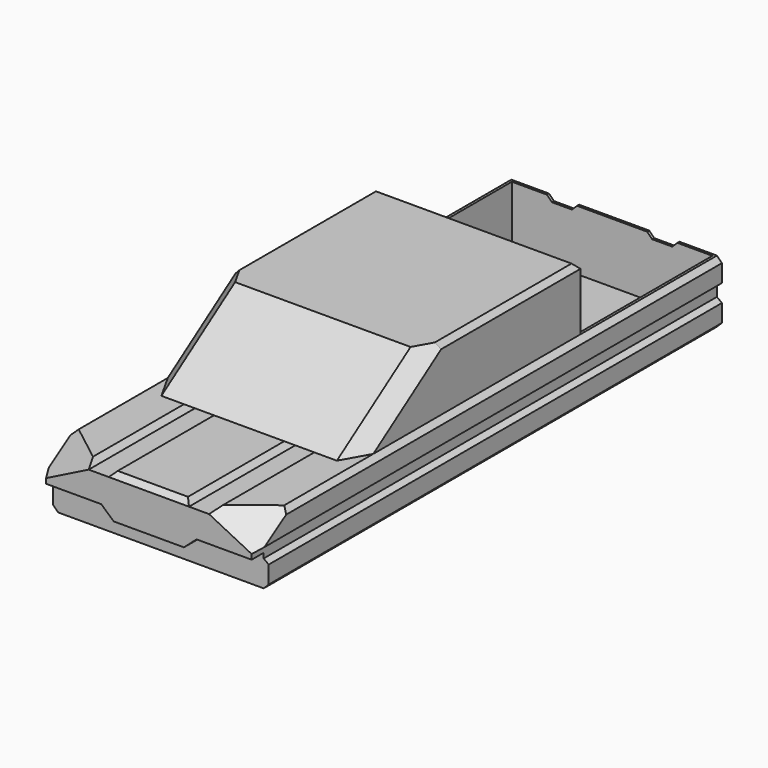
from build123d import *

# Parameters (mm, degrees)
F1_DEPTH  = 5892.8
F4_W      = 1237.3383492231
F4_H      = 606.1354875565
F5_DEPTH  = 254
F6_SIZE   = 50.8
F7_SIZE   = 50.8
F10_W     = 796.8522012234
F10_H     = 674.4315624237
F11_DEPTH = 254
F12_SIZE  = 50.8
F13_W     = 2032
F13_H     = 1676.4
F14_DEPTH = 609.6
F17_DEPTH = 152.4
F19_DEPTH = 2082.8
F20_SIZE  = 50.8
F21_SIZE  = 50.8
F22_SIZE  = 50.8
F23_SIZE  = 152.4
F24_SIZE  = 152.4


with BuildPart() as f1:
    # F0 (on Front) → F1 (new body)
    with BuildSketch(Plane.XZ):
        Polygon((-1092.2, 50.8), (-1041.4, 0), (1041.4, 0), (1092.2, 50.8), (1092.2, 228.6), (1041.4, 266.7), (1041.4, 368.3), (1092.2, 406.4), (1092.2, 584.2), (1041.4, 635), (660.4, 635), (609.6, 584.2), (406.4, 584.2), (355.6, 635), (-355.6, 635), (-406.4, 584.2), (-609.6, 584.2), (-660.4, 635), (-1041.4, 635), (-1092.2, 584.2), (-1092.2, 406.4), (-1041.4, 368.3), (-1041.4, 266.7), (-1092.2, 228.6), align=None)
    extrude(amount=-F1_DEPTH)

    # F4 (on line) → F5 (cut)
    with BuildSketch(Plane(origin=(266.7, -344.3082194778, 533.4), x_dir=(0.9219544457, 0.2100420126, -0.3253956867), z_dir=(0.3872983346, -0.5, 0.7745966692))):
        with Locations((750.6187930703, 477.5711297989)):
            Rectangle(F4_W, F4_H)
    extrude(amount=F5_DEPTH, mode=Mode.SUBTRACT)

    # F6
    f6_edges = [f1.edges().sort_by_distance(p)[0] for p in [
        (0, 0, 635),
    ]]
    chamfer(f6_edges, length=F6_SIZE)

    # F7
    f7_edges = [f1.edges().sort_by_distance(p)[0] for p in [
        (1092.2, 0, 139.7),
    ]]
    chamfer(f7_edges, length=F7_SIZE)

    # F10 (on line) → F11 (cut)
    with BuildSketch(Plane(origin=(-266.7, -344.3082194778, 533.4), x_dir=(0.9219544457, -0.2100420126, 0.3253956867), z_dir=(-0.3872983346, -0.5, 0.7745966692))):
        with Locations((-677.8981238604, 438.4608864784)):
            Rectangle(F10_W, F10_H)
    extrude(amount=F11_DEPTH, mode=Mode.SUBTRACT)

    # F12
    f12_edges = [f1.edges().sort_by_distance(p)[0] for p in [
        (-1092.2, 0, 139.7),
    ]]
    chamfer(f12_edges, length=F12_SIZE)

    # F13 (on face) → F14 (cut)
    with BuildSketch(Plane.XY.offset(635)):
        with Locations((0, 5029.2)):
            Rectangle(F13_W, F13_H)
    extrude(amount=-F14_DEPTH, mode=Mode.SUBTRACT)

    # F16 (on face) → F17 (cut)
    with BuildSketch(Plane.XZ):
        Polygon((-482.6, 317.5), (-1041.4, 317.5), (-1041.4, 266.7), (-1041.4, 0), (1041.4, 0), (1041.4, 266.7), (1041.4, 317.5), (482.6, 317.5), (355.6, 204.755038023), (-355.6, 204.755038023), align=None)
        Polygon((-1041.4, 266.7), (-1041.4, 317.5), (-1182.5258731842, 317.5), (-1182.5258731842, 0), (-1041.4, 0), align=None)
        Polygon((1041.4, 266.7), (1041.4, 0), (1174.5268106461, 0), (1174.5268106461, 317.5), (1041.4, 317.5), align=None)
    extrude(amount=-F17_DEPTH, mode=Mode.SUBTRACT)

    # F18 (on offset) → F19 (join)
    with BuildSketch(Plane.YZ.offset(1041.4)):
        Polygon((2203.6221027374, 1270), (1270, 635), (4165.6, 635), (4165.6, 1270), align=None)
    extrude(amount=-F19_DEPTH)

    # F20
    f20_edges = [f1.edges().sort_by_distance(p)[0] for p in [
        (1041.4, 3184.611051, 1270),
    ]]
    chamfer(f20_edges, length=F20_SIZE)

    # F21
    f21_edges = [f1.edges().sort_by_distance(p)[0] for p in [
        (-1041.4, 3184.611051, 1270),
    ]]
    chamfer(f21_edges, length=F21_SIZE)

    # F22
    f22_edges = [f1.edges().sort_by_distance(p)[0] for p in [
        (0, 4165.6, 1270),
    ]]
    chamfer(f22_edges, length=F22_SIZE)

    # F23
    f23_edges = [f1.edges().sort_by_distance(p)[0] for p in [
        (1041.4, 1699.466167, 927.1),
    ]]
    chamfer(f23_edges, length=F23_SIZE)

    # F24
    f24_edges = [f1.edges().sort_by_distance(p)[0] for p in [
        (-1041.4, 1699.466167, 927.1),
    ]]
    chamfer(f24_edges, length=F24_SIZE)


solid = f1.part
